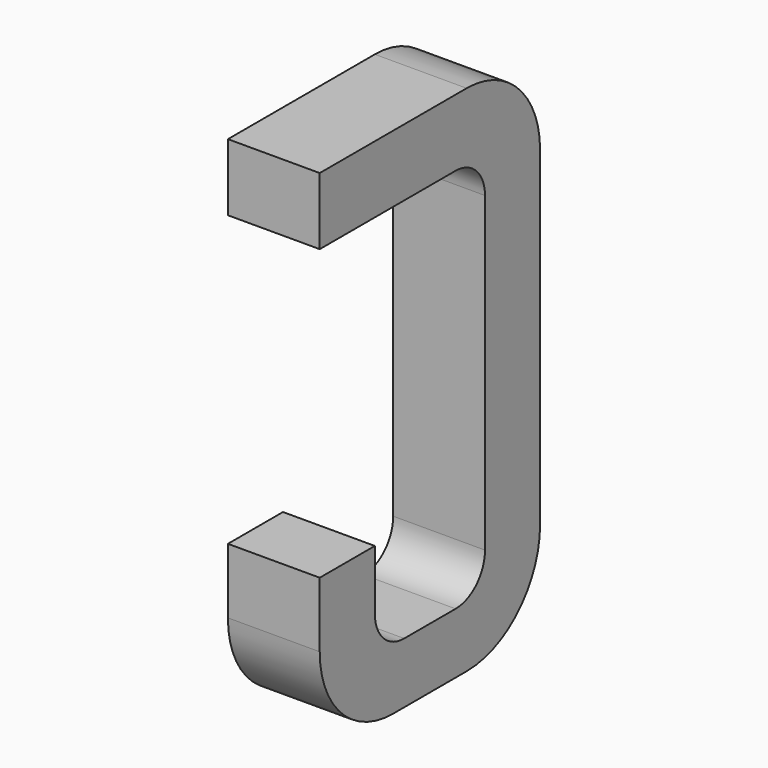
from build123d import *

# Parameters (mm, degrees)
BOX141_W     = 0.5
BOX141_H     = 1.5
BOX141_DEPTH = 2.795
FILLET314_R  = 0.5
FILLET333_R  = 0.5
FILLET323_R  = 0.5
BOX118_W     = 0.75
BOX118_H     = 2.1
BOX118_DEPTH = 1
FILLET258_R  = 0.2
FILLET334_R  = 0.2
FILLET330_R  = 0.2
FILLET322_R  = 0.2
BOX143_W     = 1
BOX143_H     = 1.575
BOX143_DEPTH = 3


with BuildPart() as part:
    # Box141 → Box141 (join)
    with BuildSketch(Plane(origin=(-0.25, 11.125, 0), x_dir=(1, 0, 0), z_dir=(0, 0, 1))):
        with Locations((0.25, 0.75)):
            Rectangle(BOX141_W, BOX141_H)
    extrude(amount=BOX141_DEPTH)

    # Fillet314
    fillet314_edges = [part.edges().sort_by_distance(p)[0] for p in [
        (0, 12.625, 0),
    ]]
    fillet(fillet314_edges, radius=FILLET314_R)

    # Fillet333
    fillet333_edges = [part.edges().sort_by_distance(p)[0] for p in [
        (0, 12.625, 2.795),
    ]]
    fillet(fillet333_edges, radius=FILLET333_R)

    # Fillet323
    fillet323_edges = [part.edges().sort_by_distance(p)[0] for p in [
        (0, 11.125, 0),
    ]]
    fillet(fillet323_edges, radius=FILLET323_R)

    # Box118 → Box118 (cut)
    with BuildSketch(Plane(origin=(-0.5, 11.5, 0.33), x_dir=(0, 1, 0), z_dir=(1, 0, 0))):
        with Locations((0.375, 1.05)):
            Rectangle(BOX118_W, BOX118_H)
    extrude(amount=BOX118_DEPTH, mode=Mode.SUBTRACT)

    # Fillet258
    fillet258_edges = [part.edges().sort_by_distance(p)[0] for p in [
        (0, 11.5, 0.33),
    ]]
    fillet(fillet258_edges, radius=FILLET258_R)

    # Fillet334
    fillet334_edges = [part.edges().sort_by_distance(p)[0] for p in [
        (0, 12.25, 0.33),
    ]]
    fillet(fillet334_edges, radius=FILLET334_R)

    # Fillet330
    fillet330_edges = [part.edges().sort_by_distance(p)[0] for p in [
        (0, 11.5, 2.43),
    ]]
    fillet(fillet330_edges, radius=FILLET330_R)

    # Fillet322
    fillet322_edges = [part.edges().sort_by_distance(p)[0] for p in [
        (0, 12.25, 2.43),
    ]]
    fillet(fillet322_edges, radius=FILLET322_R)

    # Box143 → Box143 (cut)
    with BuildSketch(Plane(origin=(-1, 11, 0.855), x_dir=(0, 1, 0), z_dir=(1, 0, 0))):
        with Locations((0.5, 0.7875)):
            Rectangle(BOX143_W, BOX143_H)
    extrude(amount=BOX143_DEPTH, mode=Mode.SUBTRACT)


with BuildPart() as part_1:
    # Body047 placement: moved
    add(part.part.moved(Location((-3.81, 0, 0))))


solid = part_1.part
